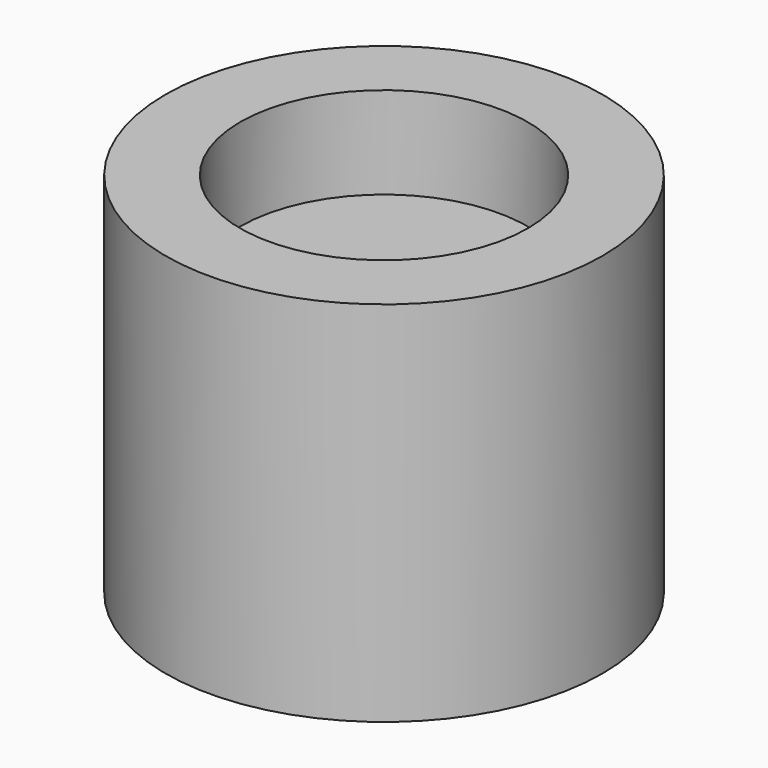
from build123d import *

# Parameters (mm, degrees)
F0_R     = 60.384738
F1_DEPTH = 38.1
F2_R     = 60.384738
F2_R_2   = 39.759379
F3_DEPTH = 25.4


with BuildPart() as f1:
    # F0 (on Top) → F1 (new body, symmetric)
    with BuildSketch(Plane.XY):
        Circle(F0_R)
    extrude(amount=F1_DEPTH, both=True)

    # F2 (on face) → F3 (join)
    with BuildSketch(Plane.XY.offset(38.1)):
        Circle(F2_R)
        Circle(F2_R_2, mode=Mode.SUBTRACT)
    extrude(amount=F3_DEPTH)


solid = f1.part
